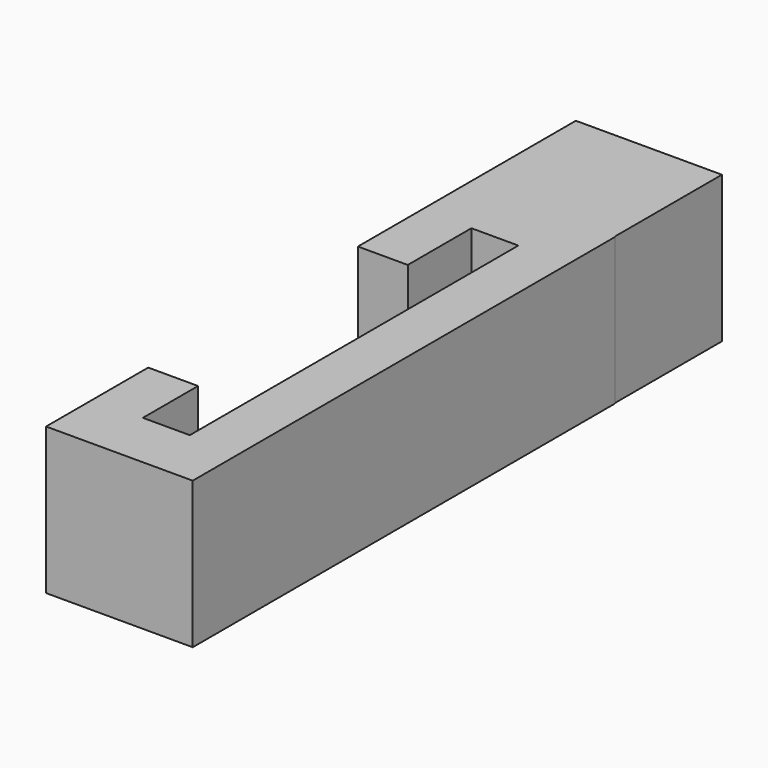
from build123d import *

# Parameters (mm, degrees)
F1_DEPTH = 12.5


with BuildPart() as f1:
    # F0 (on Top) → F1 (new body, symmetric)
    with BuildSketch(Plane.XY):
        Polygon((12.5, 45), (12.403125, 45), (12.403125, 67.876421), (-12.5, 67.876421), (-12.5, 45), (-12.5, 21.442934), (-4, 21.442934), (-4, 35), (4, 35), (4, -35), (-4, -35), (-4, -23.240734), (-12.5, -23.240734), (-12.5, -45), (12.5, -45), align=None)
    extrude(amount=F1_DEPTH, both=True)


solid = f1.part
